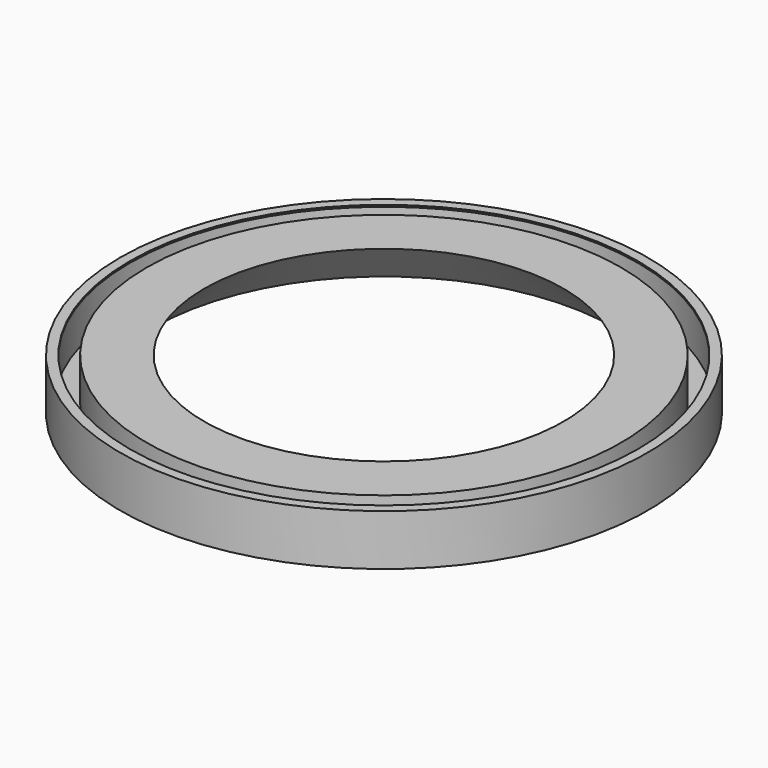
from build123d import *


with BuildPart() as f1:
    # F0 (on Front) → F1 (revolve)
    with BuildSketch(Plane.XZ):
        Polygon((-63.661977, 12.6), (-65.261977, 12.6), (-65.261977, 0), (-57.061977, 0), (-44.461977, 12.6), (-57.061977, 12.6), (-58.661977, 12.6), (-58.661977, 1.6), (-63.661977, 1.6), (-63.661977, 11.73812), align=None)
        Polygon((-62.861977, 12.6), (-63.661977, 12.6), (-63.661977, 11.73812), (-62.861977, 12.2), align=None)
    revolve(axis=Axis((0, 0, 15.851399), (0, 0, 1)))


solid = f1.part
